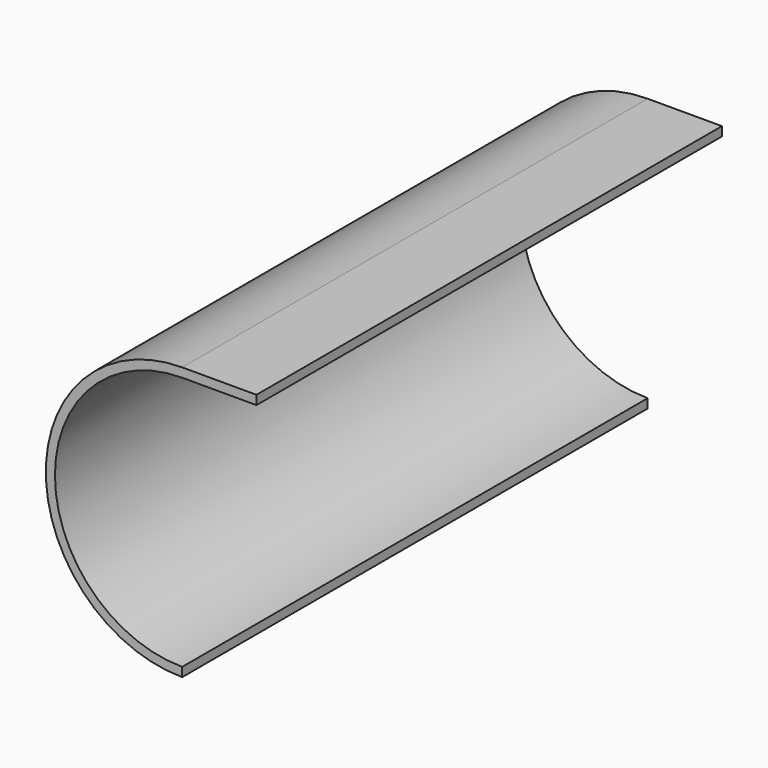
from build123d import *

# Parameters (mm, degrees)
F1_DEPTH = 203.2
F2_DEPTH = 25.4


with BuildPart() as f1:
    # F0 (on Front) → F1 (new body)
    with BuildSketch(Plane.XZ):
        with BuildLine():
            ThreePointArc((0, -44.45), (-44.45, 0), (0, 44.45))
            Line((0, 44.45), (25.92662, 44.45))
            Line((25.92662, 44.45), (25.92662, 47.625))
            Line((25.92662, 47.625), (0, 47.625))
            ThreePointArc((0, 47.625), (-47.625, 0), (0, -47.625))
            Line((0, -47.625), (0, -44.45))
        make_face()
    extrude(amount=F1_DEPTH)

    # F0 (on Front) → F2 (join)
    with BuildSketch(Plane.XZ):
        with BuildLine():
            ThreePointArc((0, -44.45), (-44.45, 0), (0, 44.45))
            Line((0, 44.45), (25.92662, 44.45))
            Line((25.92662, 44.45), (25.92662, 47.625))
            Line((25.92662, 47.625), (0, 47.625))
            ThreePointArc((0, 47.625), (-47.625, 0), (0, -47.625))
            Line((0, -47.625), (0, -44.45))
        make_face()
    extrude(amount=F2_DEPTH)


solid = f1.part
